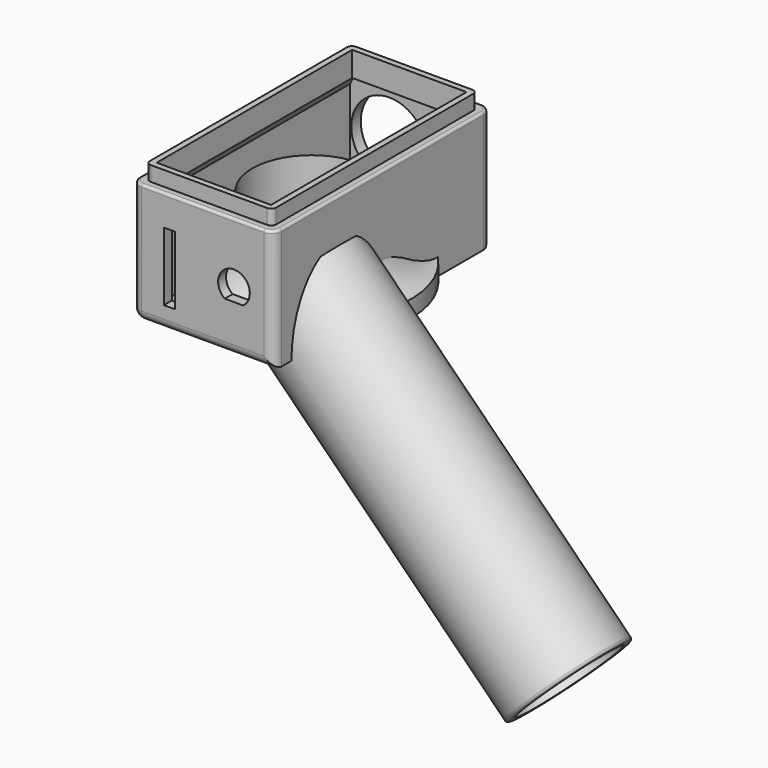
from build123d import *

# Parameters (mm, degrees)
SKETCH_W          = 28.7
SKETCH_H          = 55
PAD_DEPTH         = 27.5
SKETCH001_W       = 28.7
SKETCH001_H       = 55
SKETCH001_W_2     = 25.5
SKETCH001_H_2     = 51.8
POCKET_DEPTH      = 3
SKETCH002_W       = 23.1
SKETCH002_H       = 49.4
POCKET001_DEPTH   = 26
SKETCH003_R       = 3.4
POCKET002_DEPTH   = 5
SKETCH007_W       = 2.2
SKETCH007_H       = 13.8
POCKET005_DEPTH   = 2
SKETCH008_R       = 7.7
POCKET006_DEPTH   = 3
SKETCH009_R       = 11.9
SKETCH009_R_2     = 10.3
PAD002_DEPTH      = 66
PAD002_DEPTH_BACK = 11
POCKET008_DEPTH   = 2.8
SKETCH014_R       = 4
POCKET010_DEPTH   = 6
SKETCH004_W       = 24.7
SKETCH004_H       = 50.6
POCKET011_DEPTH   = 21
PAD003_DEPTH      = 50.6
FILLET_R          = 1
FILLET005_R       = 2
FILLET006_R       = 0.5
FILLET007_R       = 0.5
SKETCH005_W       = 6
SKETCH005_H       = 7
PAD001_DEPTH      = 2.5
CHAMFER001_SIZE   = 2
FILLET003_R       = 1
SKETCH006_W       = 3
SKETCH006_H       = 3.7
POCKET004_DEPTH   = 0.6
FILLET004_R       = 1.2


with BuildPart() as body:
    # Sketch → Pad (new body)
    with BuildSketch(Plane.XY):
        Rectangle(SKETCH_W, SKETCH_H)
    extrude(amount=PAD_DEPTH)

    # Sketch001 (on Face6 of Pad) → Pocket (cut)
    with BuildSketch(Plane.XY.offset(27.5)):
        Rectangle(SKETCH001_W, SKETCH001_H)
        Rectangle(SKETCH001_W_2, SKETCH001_H_2, mode=Mode.SUBTRACT)
    extrude(amount=-POCKET_DEPTH, mode=Mode.SUBTRACT)

    # Sketch002 (on Face11 of Pocket) → Pocket001 (cut)
    with BuildSketch(Plane.XY.offset(27.5)):
        Rectangle(SKETCH002_W, SKETCH002_H)
    extrude(amount=-POCKET001_DEPTH, mode=Mode.SUBTRACT)

    # Sketch003 → Pocket002 (cut)
    with BuildSketch(Plane(origin=(0, 27.5, 0), x_dir=(-1, 0, 0), z_dir=(0, 1, 0))):
        with Locations((-7.881901, 7.25)):
            Circle(SKETCH003_R)
    extrude(amount=-POCKET002_DEPTH, mode=Mode.SUBTRACT)

    # Sketch007 → Pocket005 (cut)
    with BuildSketch(Plane.XZ.offset(27.5)):
        with Locations((-6.75, 11.4)):
            Rectangle(SKETCH007_W, SKETCH007_H)
    extrude(amount=-POCKET005_DEPTH, mode=Mode.SUBTRACT)

    # Sketch008 (on Face1 of Pocket005) → Pocket006 (cut)
    with BuildSketch(Plane(origin=(0, 27.5, 0), x_dir=(-1, 0, 0), z_dir=(0, 1, 0))):
        with Locations((4.372906, 13.5)):
            Circle(SKETCH008_R)
    extrude(amount=-POCKET006_DEPTH, mode=Mode.SUBTRACT)

    # Sketch009 (on DatumPlane) → Pad002 (join, two sides)
    with BuildSketch(Plane(origin=(14.35, 0, 0), x_dir=(0, 1, 0), z_dir=(0.707107, 0, -0.707107))) as pad002_sk:
        with Locations((-11.137205, 0)):
            Circle(SKETCH009_R)
        with Locations((-11.137205, 0)):
            Circle(SKETCH009_R_2, mode=Mode.SUBTRACT)
    extrude(amount=PAD002_DEPTH)
    extrude(pad002_sk.sketch, amount=-PAD002_DEPTH_BACK)

    # Sketch011 → Pocket008 (cut)
    with BuildSketch(Plane.XZ.offset(27.5)):
        with BuildLine():
            ThreePointArc((8.174312, 9.654509), (6.308836, 15.454509), (4.44336, 9.654509))
            Line((4.44336, 9.654509), (8.174312, 9.654509))
        make_face()
    extrude(amount=-POCKET008_DEPTH, mode=Mode.SUBTRACT)

    # Sketch014 (on DatumPlane) → Pocket010 (cut)
    with BuildSketch(Plane(origin=(14.35, 0, 0), x_dir=(0, 1, 0), z_dir=(0.707107, 0, -0.707107))):
        with Locations((-17.30696, 0)):
            Circle(SKETCH014_R)
    extrude(amount=-POCKET010_DEPTH, mode=Mode.SUBTRACT)

    # Sketch004 (on Face27 of Pocket010) → Pocket011 (cut)
    with BuildSketch(Plane.XY.offset(1.5)):
        with Locations((0, -0.2)):
            Rectangle(SKETCH004_W, SKETCH004_H)
    extrude(amount=POCKET011_DEPTH, mode=Mode.SUBTRACT)

    # Sketch015 (on Face16 of Pocket011) → Pad003 (join)
    with BuildSketch(Plane.XZ.offset(-25.1)):
        Polygon((-12.35, 22.5), (-11.55, 22.5), (-12.35, 20.995398), align=None)
    extrude(amount=PAD003_DEPTH)

    # Fillet
    fillet_edges = [body.edges().sort_by_distance(p)[0] for p in [
        (12.75, -25.9, 26),
        (12.75, 25.9, 26),
        (-12.75, -25.9, 26),
        (-12.75, 25.9, 26),
    ]]
    fillet(fillet_edges, radius=FILLET_R)

    # Fillet005
    fillet005_edges = [body.edges().sort_by_distance(p)[0] for p in [
        (-14.35, 27.5, 12.25),
        (-14.35, -27.5, 12.25),
        (14.35, -27.5, 12.25),
        (14.35, 27.5, 12.25),
        (0, 27.5, 0),
        (0, -27.5, 0),
        (-14.35, 0, 0),
    ]]
    fillet(fillet005_edges, radius=FILLET005_R)

    # Fillet006
    fillet006_edges = [body.edges().sort_by_distance(p)[0] for p in [
        (14.35, 0, 24.5),
        (13.764214, -26.914214, 24.5),
        (0, -27.5, 24.5),
        (13.764214, 26.914214, 24.5),
        (0, 27.5, 24.5),
        (-13.764214, 26.914214, 24.5),
        (-14.35, 0, 24.5),
        (-13.764214, -26.914214, 24.5),
    ]]
    fillet(fillet006_edges, radius=FILLET006_R)

    # Fillet007
    fillet007_edges = [body.edges().sort_by_distance(p)[0] for p in [
        (61.019048, -23.037205, -46.669048),
    ]]
    fillet(fillet007_edges, radius=FILLET007_R)


with BuildPart() as button:
    # Sketch005 → Pad001 (new body)
    with BuildSketch(Plane.XY):
        Rectangle(SKETCH005_W, SKETCH005_H)
    extrude(amount=PAD001_DEPTH)

    # Chamfer001
    chamfer001_edges = [button.edges().sort_by_distance(p)[0] for p in [
        (0, 3.5, 2.5),
        (3, 0, 2.5),
        (0, -3.5, 2.5),
        (-3, 0, 2.5),
    ]]
    chamfer(chamfer001_edges, length=CHAMFER001_SIZE)

    # Fillet003
    fillet003_edges = [button.edges().sort_by_distance(p)[0] for p in [
        (0, 1.5, 2.5),
        (-1, 0, 2.5),
        (1, 0, 2.5),
        (0, -1.5, 2.5),
    ]]
    fillet(fillet003_edges, radius=FILLET003_R)

    # Sketch006 (on Face11 of Fillet003) → Pocket004 (cut)
    with BuildSketch(Plane(origin=(0, 0, 0), x_dir=(1, 0, 0), z_dir=(0, 0, -1))):
        Rectangle(SKETCH006_W, SKETCH006_H)
    extrude(amount=-POCKET004_DEPTH, mode=Mode.SUBTRACT)

    # Fillet004
    fillet004_edges = [button.edges().sort_by_distance(p)[0] for p in [
        (-1.5, -1.85, 0.3),
        (1.5, -1.85, 0.3),
        (1.5, 1.85, 0.3),
        (-1.5, 1.85, 0.3),
    ]]
    fillet(fillet004_edges, radius=FILLET004_R)


with BuildPart() as bat_cap:
    # Sketch012 → Revolution (revolve)
    with BuildSketch(Plane.YZ):
        with BuildLine():
            Line((-12, 16.3058), (-12, 1.2))
            Line((-12, 1.2), (0, 1.2))
            Line((0, 1.2), (0, 0))
            Line((0, 0), (-20, 0))
            Line((-20, 0), (-20, 3.402748))
            add(Edge.make_bspline(
                [(-12, 16.3058), (-14.526023, 3.768002), (-20, 3.402748)],
                knots=[0, 0, 0, 1, 1, 1], degree=2))
        make_face()
    revolve(axis=Axis((0, 0, 0), (0, 0, 1)))


solid = Compound([body.part, button.part, bat_cap.part])
